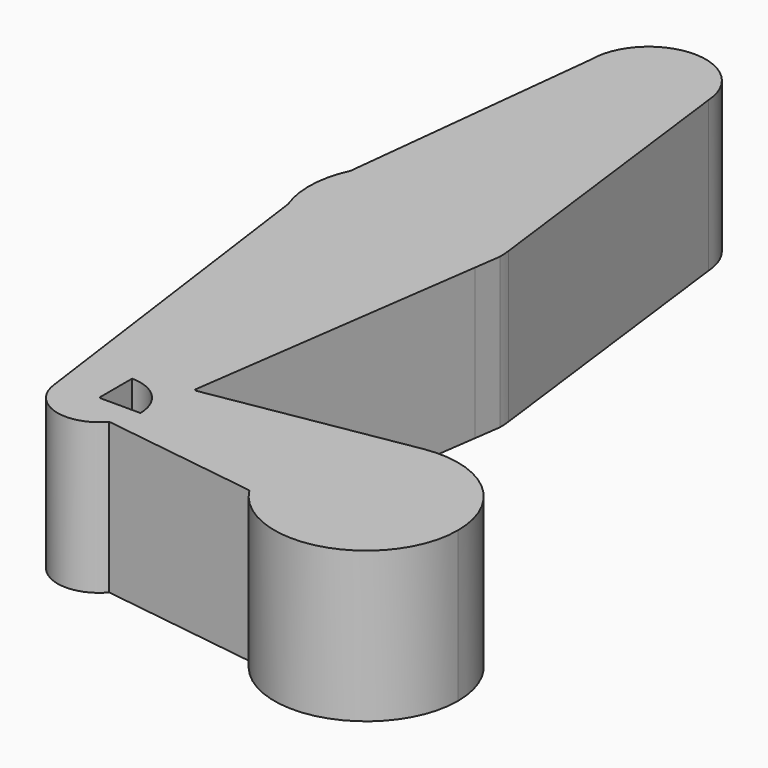
from build123d import *

# Parameters (mm, degrees)
F1_DEPTH = 25


with BuildPart() as f1:
    # F0 (on Top) → F1 (new body)
    with BuildSketch(Plane.XY):
        with BuildLine():
            ThreePointArc((-6.8241339852, -0.9313086309), (-5.1889510561, 4.5288991324), (0, 6.8873899565))
            Line((0, 6.8873899565), (0, 47.625))
            ThreePointArc((0, 47.625), (-9.0282443276, 50.4421889521), (-14.8521711525, 57.893875041))
            Line((-14.8521711525, 57.893875041), (-6.8241339852, -0.9313086309))
        make_face()
        with BuildLine():
            Line((0, 47.625), (0, 6.8873899565))
            ThreePointArc((0, 6.8873899565), (4.8701201429, 4.8701201429), (6.8873899565, 0))
            Line((6.8873899565, 0), (29.176207739, 0))
            ThreePointArc((29.176207739, 0), (32.7792386223, 9.8530228304), (41.8884480573, 15.0574626573))
            Line((41.8884480573, 15.0574626573), (8.6711789906, 9.4065929161))
            ThreePointArc((8.6711789906, 9.4065929161), (8.411826579, 9.4871639677), (8.3237830731, 9.7440758375))
            Line((8.3237830731, 9.7440758375), (15.260617674, 59.126308972))
            ThreePointArc((15.260617674, 59.126308972), (9.5546658741, 50.8223036385), (0, 47.625))
        make_face()
        with BuildLine():
            Line((59.723792261, 0), (29.176207739, 0))
            ThreePointArc((29.176207739, 0), (29.7756941961, -4.2371546117), (31.5270946566, -8.1416980732))
            ThreePointArc((31.5270946566, -8.1416980732), (48.6871546117, -14.6743058039), (59.723792261, 0))
        make_face()
        with BuildLine():
            Line((29.176207739, 0), (6.8873899565, 0))
            ThreePointArc((6.8873899565, 0), (6.4666078996, -2.3704688747), (5.2556767179, -4.451292245))
            Line((5.2556767179, -4.451292245), (31.5270946566, -8.1416980732))
            ThreePointArc((31.5270946566, -8.1416980732), (29.7756941961, -4.2371546117), (29.176207739, 0))
        make_face()
        with BuildLine():
            ThreePointArc((0.3, 0), (0.0878679656, 0.0878679656), (0, 0.3))
            Line((0, 0.3), (0, 6.8873899565))
            ThreePointArc((0, 6.8873899565), (-5.1889510561, 4.5288991324), (-6.8241339852, -0.9313086309))
            ThreePointArc((-6.8241339852, -0.9313086309), (-1.9268071285, -6.6123788989), (5.2556767179, -4.451292245))
            ThreePointArc((5.2556767179, -4.451292245), (6.4666078996, -2.3704688747), (6.8873899565, 0))
            Line((6.8873899565, 0), (0.3, 0))
        make_face()
        with BuildLine():
            ThreePointArc((-14.3645068096, 70.2584442824), (-8.5066245367, 76.9034683568), (0, 79.375))
            Line((0, 79.375), (0, 104.775))
            ThreePointArc((0, 104.775), (-6.7351920908, 107.5648079092), (-9.525, 114.3))
            Line((-9.525, 114.3), (-14.3645068096, 70.2584442824))
        make_face()
        with BuildLine():
            ThreePointArc((-9.525, 114.3), (-6.7351920908, 107.5648079092), (0, 104.775))
            ThreePointArc((0, 104.775), (6.7351920908, 107.5648079092), (9.525, 114.3))
            ThreePointArc((9.525, 114.3), (9.5200842379, 114.6059756587), (9.5053420255, 114.9116354952))
            ThreePointArc((9.5053420255, 114.9116354952), (-0.3059756587, 123.8200842379), (-9.525, 114.3))
        make_face()
        with BuildLine():
            ThreePointArc((41.8884480573, 15.0574626573), (32.7792386223, 9.8530228304), (29.176207739, 0))
            Line((29.176207739, 0), (59.723792261, 0))
            ThreePointArc((59.723792261, 0), (54.3030228304, 11.6707613777), (41.8884480573, 15.0574626573))
        make_face()
        with BuildLine():
            Line((0, 104.775), (0, 79.375))
            ThreePointArc((0, 79.375), (10.49820348, 75.4081211236), (15.7497799835, 65.4899888118))
            Line((15.7497799835, 65.4899888118), (9.5053420255, 114.9116354952))
            ThreePointArc((9.5053420255, 114.9116354952), (9.5200842379, 114.6059756587), (9.525, 114.3))
            ThreePointArc((9.525, 114.3), (6.7351920908, 107.5648079092), (0, 104.775))
        make_face()
        with BuildLine():
            Line((0, 79.375), (0, 47.625))
            ThreePointArc((0, 47.625), (9.5546658741, 50.8223036385), (15.260617674, 59.126308972))
            Line((15.260617674, 59.126308972), (15.875, 63.5))
            ThreePointArc((15.875, 63.5), (15.8436640686, 64.4969623267), (15.7497799835, 65.4899888118))
            ThreePointArc((15.7497799835, 65.4899888118), (10.49820348, 75.4081211236), (0, 79.375))
        make_face()
        with BuildLine():
            ThreePointArc((-14.8521711525, 57.893875041), (-9.0282443276, 50.4421889521), (0, 47.625))
            Line((0, 47.625), (0, 79.375))
            ThreePointArc((0, 79.375), (-8.5066245367, 76.9034683568), (-14.3645068096, 70.2584442824))
            ThreePointArc((-14.3645068096, 70.2584442824), (-15.8626672069, 64.1256309484), (-14.8521711525, 57.893875041))
        make_face()
    extrude(amount=F1_DEPTH)


solid = f1.part
